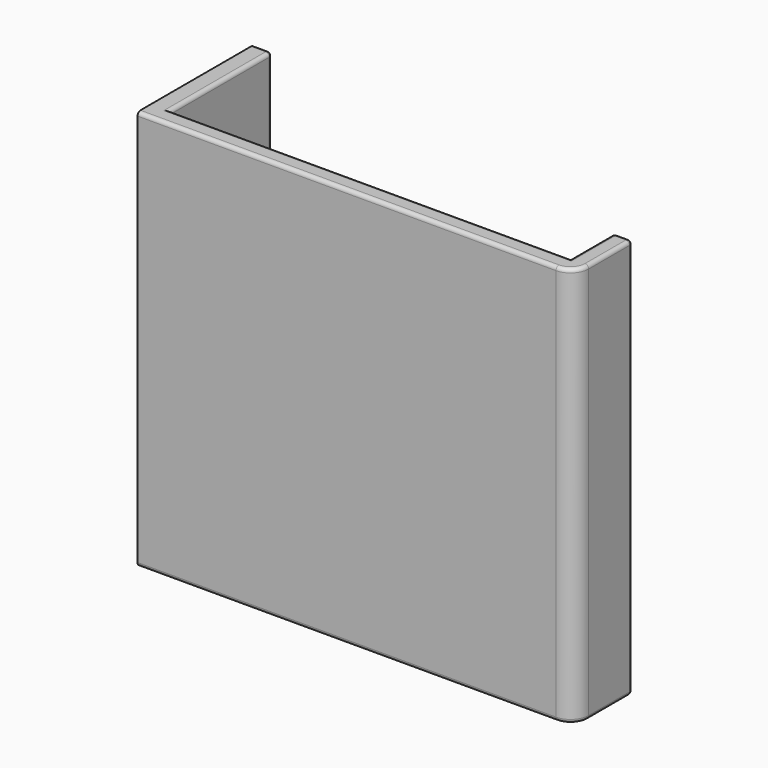
from build123d import *

# Parameters (mm, degrees)
PAD_DEPTH       = 110
SKETCH001_R     = 2.5
POCKET_DEPTH    = 5
SKETCH002_R     = 50
POCKET001_DEPTH = 2
FILLET_R        = 5
FILLET001_R     = 1
FILLET002_R     = 1
FILLET003_R     = 1
FILLET004_R     = 1


with BuildPart() as part:
    # Sketch → Pad (new body)
    with BuildSketch(Plane.XY):
        Polygon((0, 40), (0, 0), (120, 0), (120, 20), (115, 20), (115, 5), (5, 5), (5, 40), align=None)
    extrude(amount=PAD_DEPTH)

    # Sketch001 (on Face1 of Pad) → Pocket (cut)
    with BuildSketch(Plane(origin=(0, 0, 0), x_dir=(0, -1, 0), z_dir=(-1, 0, 0))):
        with Locations((-20, 80)):
            Circle(SKETCH001_R)
        with Locations((-20, 30)):
            Circle(SKETCH001_R)
    extrude(amount=-POCKET_DEPTH, mode=Mode.SUBTRACT)

    # Sketch002 (on Face12 of Pocket) → Pocket001 (cut)
    with BuildSketch(Plane(origin=(0, 5, 0), x_dir=(-1, 0, 0), z_dir=(0, 1, 0))):
        with Locations((-60, 55)):
            Circle(SKETCH002_R)
    extrude(amount=-POCKET001_DEPTH, mode=Mode.SUBTRACT)

    # Fillet
    fillet_edges = [part.edges().sort_by_distance(p)[0] for p in [
        (120, 0, 55),
    ]]
    fillet(fillet_edges, radius=FILLET_R)

    # Fillet001
    fillet001_edges = [part.edges().sort_by_distance(p)[0] for p in [
        (57.5, 0, 110),
    ]]
    fillet(fillet001_edges, radius=FILLET001_R)

    # Fillet002
    fillet002_edges = [part.edges().sort_by_distance(p)[0] for p in [
        (57.5, 0, 0),
    ]]
    fillet(fillet002_edges, radius=FILLET002_R)

    # Fillet003
    fillet003_edges = [part.edges().sort_by_distance(p)[0] for p in [
        (120, 20, 55),
    ]]
    fillet(fillet003_edges, radius=FILLET003_R)

    # Fillet004
    fillet004_edges = [part.edges().sort_by_distance(p)[0] for p in [
        (115, 20, 55),
        (5, 40, 55),
        (60, 5, 110),
        (5, 22.5, 110),
        (115, 12, 110),
        (115, 12, 0),
        (60, 5, 0),
        (5, 22.5, 0),
        (2.5, 40, 0),
        (2.5, 40, 110),
    ]]
    fillet(fillet004_edges, radius=FILLET004_R)


solid = part.part
